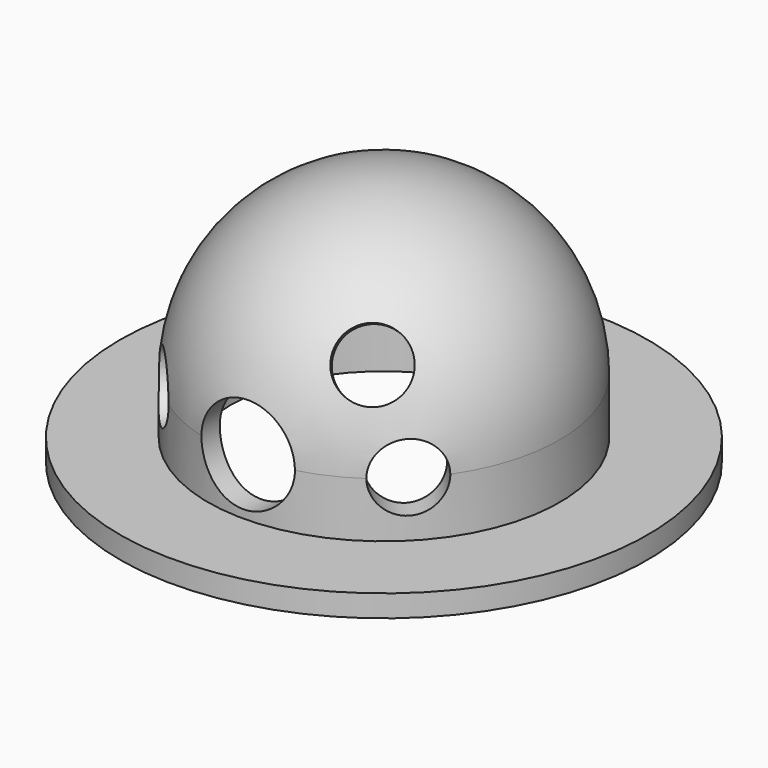
from build123d import *

# Parameters (mm, degrees)
F2_R      = 4.25
F3_DEPTH  = 50
F6_R      = 3
F7_DEPTH  = 25
F13_R     = 3
F14_DEPTH = 25


with BuildPart() as f1:
    # F0 (on Front) → F1 (revolve)
    with BuildSketch(Plane.XZ):
        with BuildLine():
            Line((-24, -7), (-14, -7))
            Line((-14, -7), (-14, 0))
            ThreePointArc((-14, 0), (-9.8994949366, 9.8994949366), (0, 14))
            Line((0, 14), (0, 16))
            ThreePointArc((0, 16), (-11.313708499, 11.313708499), (-16, 0))
            Line((-16, 0), (-16, -5))
            Line((-16, -5), (-24, -5))
            Line((-24, -5), (-24, -7))
        make_face()
    revolve(axis=Axis((0, 0, 15), (0, 0, -1)))

    # F2 (on Front) → F3 (cut)
    with BuildSketch(Plane.XZ):
        Circle(F2_R)
    extrude(amount=F3_DEPTH, mode=Mode.SUBTRACT)

    # F6 (on face) → F7 (cut)
    with BuildSketch(Plane(origin=(0, 0, 0), x_dir=(-0.7071067812, 0.7071067812, 0), z_dir=(0.7071067812, 0.7071067812, 0))):
        Circle(F6_R)
    extrude(amount=-F7_DEPTH, mode=Mode.SUBTRACT)

    # F10 (on face) → F11 (revolve, cut)
    with BuildSketch(Plane(origin=(0, 0, 0), x_dir=(0, -1, 0), z_dir=(-0.7071067812, 0, 0.7071067812))):
        Polygon((3.9985278842, 3.9985278842), (16.6846810101, 16.6846810101), (14.5633606666, 18.8060013537), (1.8772075407, 6.1198482278), align=None)
    revolve(axis=Axis((7.3126186329, -10.3416044472, 7.3126186329), (0.5, -0.7071067812, 0.5)), mode=Mode.SUBTRACT)

    # F13 (on face) → F14 (cut)
    with BuildSketch(Plane(origin=(0, 0, 0), x_dir=(0.7071067812, 0.7071067812, 0), z_dir=(0.7071067812, -0.7071067812, 0))):
        Circle(F13_R)
    extrude(amount=F14_DEPTH, mode=Mode.SUBTRACT)


solid = f1.part
